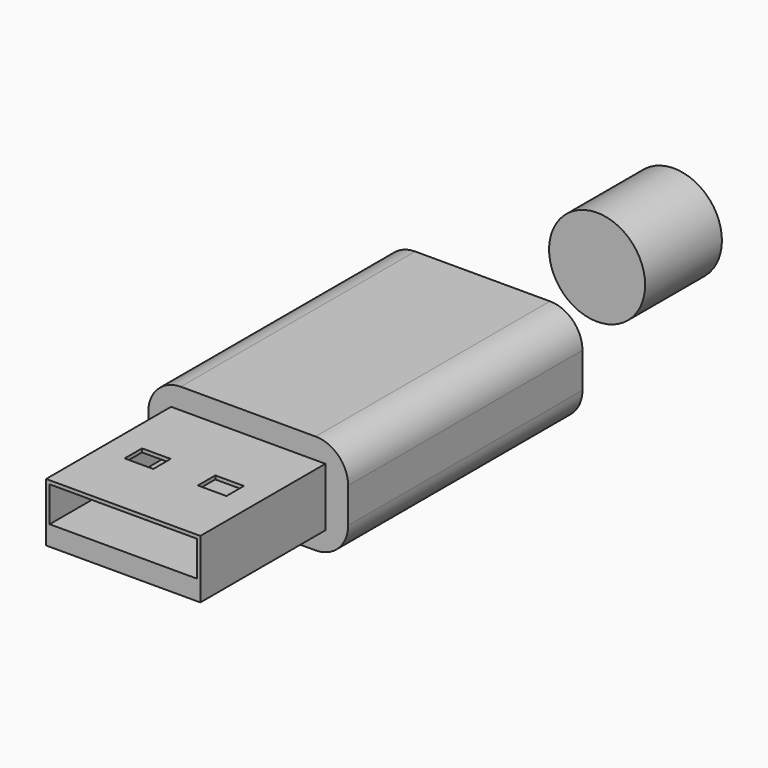
from build123d import *

# Parameters (mm, degrees)
F0_W      = 12.0396
F0_H      = 4.572
F1_DEPTH  = 12.192
F2_T      = -0.2794
F4_DEPTH  = 22.86
F5_W      = 11.4808
F5_H      = 12.192
F6_DEPTH  = 1.27
F7_W      = 2.2352
F7_H      = 1.7018
F8_DEPTH  = 0.2794
F10_R     = 3.7465
F11_DEPTH = 7.493


with BuildPart() as f1:
    # F0 (on Front) → F1 (new body)
    with BuildSketch(Plane.XZ):
        Rectangle(F0_W, F0_H)
    extrude(amount=F1_DEPTH)

    # F2
    f2_openings = [f1.faces().sort_by_distance(p)[0] for p in [
        (0, -12.192, 0),
        (0, 0, 0),
    ]]
    offset(amount=F2_T, openings=f2_openings)

    # F3 (on Front) → F4 (join)
    with BuildSketch(Plane.XZ):
        with BuildLine():
            ThreePointArc((7.7978, 1.3716), (7.0538512242, 3.1676512242), (5.2578, 3.9116))
            Line((5.2578, 3.9116), (-5.2578, 3.9116))
            ThreePointArc((-5.2578, 3.9116), (-7.0538512242, 3.1676512242), (-7.7978, 1.3716))
            Line((-7.7978, 1.3716), (-7.7978, -1.3716))
            ThreePointArc((-7.7978, -1.3716), (-7.0538512242, -3.1676512242), (-5.2578, -3.9116))
            Line((-5.2578, -3.9116), (5.2578, -3.9116))
            ThreePointArc((5.2578, -3.9116), (7.0538512242, -3.1676512242), (7.7978, -1.3716))
            Line((7.7978, -1.3716), (7.7978, 1.3716))
        make_face()
    extrude(amount=-F4_DEPTH)

    # F5 (on face) → F6 (join)
    with BuildSketch(Plane.XY.offset(-2.0066)):
        with Locations((0, -6.096)):
            Rectangle(F5_W, F5_H)
    extrude(amount=F6_DEPTH)

    # F7 (on face) → F8 (cut, through all)
    with BuildSketch(Plane.XY.offset(2.286)):
        with Locations((-2.8575, -6.2357)):
            Rectangle(F7_W, F7_H)
        with Locations((2.8575, -6.2357)):
            Rectangle(F7_W, F7_H)
    extrude(amount=-F8_DEPTH, mode=Mode.SUBTRACT)


with BuildPart() as f11:
    # F10 (on offset) → F11 (new body)
    with BuildSketch(Plane.XZ.offset(-41.529)):
        Circle(F10_R)
    extrude(amount=F11_DEPTH)


solid = Compound([f1.part, f11.part])
